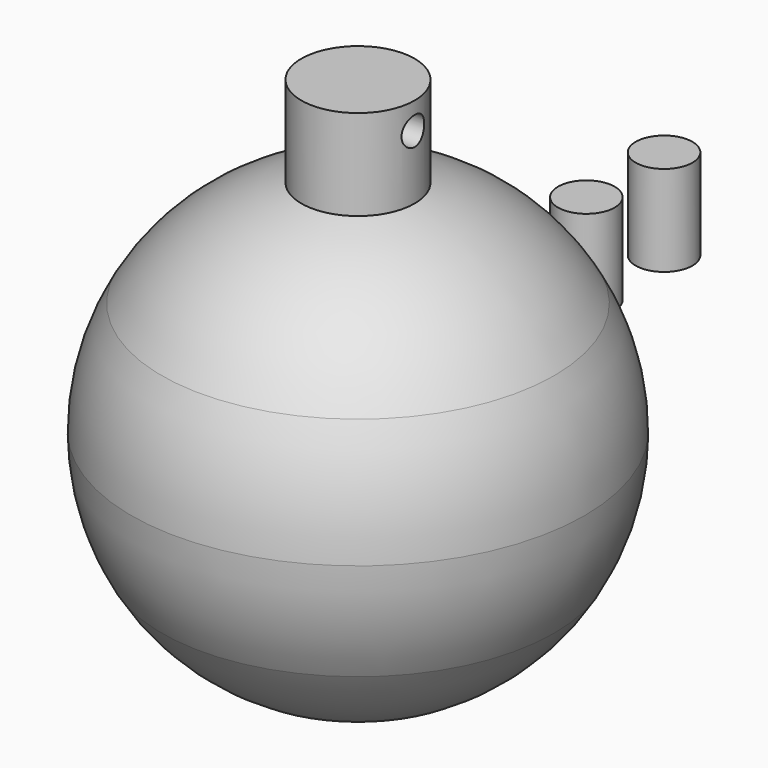
from build123d import *

# Parameters (mm, degrees)
F8_R           = 3.175
F9_DEPTH       = 5.08
F10_R          = 6.35
F11_DEPTH      = 10.16
F12_R          = 1.5875
F13_DEPTH      = 25.4
F13_DEPTH_BACK = 25.4
F14_R          = 3.302
F15_DEPTH      = 6.35
F16_R          = 3.302
F17_DEPTH      = 6.35
F18_R          = 3.302
F19_DEPTH      = 6.35
F20_R          = 3.175
F21_DEPTH      = 5.08
F22_R          = 3.175
F23_DEPTH      = 5.08
F24_R          = 3.302
F25_DEPTH      = 6.35
F26_R          = 3.175
F27_DEPTH      = 10.16
F28_R          = 3.302
F29_DEPTH      = 6.35


with BuildPart() as f1:
    # F0 (on Front) → F1 (revolve)
    with BuildSketch(Plane.XZ):
        with BuildLine():
            Line((0, -12.7), (0, -25.4))
            ThreePointArc((0, -25.4), (12.7, -21.9970452561), (21.9970452561, -12.7))
            Line((21.9970452561, -12.7), (0, -12.7))
        make_face()
    revolve(axis=Axis((0, 0, -19.05), (0, 0, 1)))

    # F18 (on face) → F19 (cut)
    with BuildSketch(Plane.XY.offset(-12.7)):
        Circle(F18_R)
    extrude(amount=-F19_DEPTH, mode=Mode.SUBTRACT)


with BuildPart() as f3:
    # F2 (on Front) → F3 (revolve)
    with BuildSketch(Plane.XZ):
        with BuildLine():
            Line((0, -12.7), (21.9970452561, -12.7))
            ThreePointArc((21.9970452561, -12.7), (24.5345159877, -6.5740037456), (25.4, 0))
            Line((25.4, 0), (0, 0))
            Line((0, 0), (0, -12.7))
        make_face()
    revolve(axis=Axis((0, 0, -6.35), (0, 0, -1)))

    # F22 (on face) → F23 (join)
    with BuildSketch(Plane(origin=(0, 0, -12.7), x_dir=(1, 0, 0), z_dir=(0, 0, -1))):
        Circle(F22_R)
    extrude(amount=F23_DEPTH)

    # F24 (on face) → F25 (cut)
    with BuildSketch(Plane.XY):
        with Locations((12.7, 0)):
            Circle(F24_R)
        with Locations((-12.7, 0)):
            Circle(F24_R)
    extrude(amount=-F25_DEPTH, mode=Mode.SUBTRACT)


with BuildPart() as f5:
    # F4 (on Front) → F5 (revolve)
    with BuildSketch(Plane.XZ):
        with BuildLine():
            Line((0, 0), (25.4, 0))
            ThreePointArc((25.4, 0), (24.5345159877, 6.5740037456), (21.9970452561, 12.7))
            Line((21.9970452561, 12.7), (0, 12.7))
            Line((0, 12.7), (0, 0))
        make_face()
    revolve(axis=Axis((0, 0, 6.35), (0, 0, 1)))

    # F20 (on face) → F21 (join)
    with BuildSketch(Plane.XY.offset(12.7)):
        Circle(F20_R)
    extrude(amount=F21_DEPTH)

    # F28 (on face) → F29 (cut)
    with BuildSketch(Plane(origin=(0, 0, 0), x_dir=(1, 0, 0), z_dir=(0, 0, -1))):
        with Locations((-12.7, 0)):
            Circle(F28_R)
        with Locations((12.7, 0)):
            Circle(F28_R)
    extrude(amount=-F29_DEPTH, mode=Mode.SUBTRACT)


with BuildPart() as f7:
    # F6 (on Front) → F7 (revolve)
    with BuildSketch(Plane.XZ):
        with BuildLine():
            Line((0, 12.7), (21.9970452561, 12.7))
            ThreePointArc((21.9970452561, 12.7), (15.3704992668, 20.2214676097), (6.35, 24.5934442484))
            Line((6.35, 24.5934442484), (0, 24.5934442484))
            Line((0, 24.5934442484), (0, 12.7))
        make_face()
    revolve(axis=Axis((0, 0, 18.6467221242), (0, 0, -1)))

    # F8 (on face) → F9 (join)
    with BuildSketch(Plane.XY.offset(24.5934442484)):
        Circle(F8_R)
    extrude(amount=F9_DEPTH)

    # F16 (on face) → F17 (cut)
    with BuildSketch(Plane(origin=(0, 0, 12.7), x_dir=(1, 0, 0), z_dir=(0, 0, -1))):
        Circle(F16_R)
    extrude(amount=-F17_DEPTH, mode=Mode.SUBTRACT)


with BuildPart() as f11:
    # F10 (on face) → F11 (new body)
    with BuildSketch(Plane.XY.offset(24.5934442484)):
        Circle(F10_R)
    extrude(amount=F11_DEPTH)

    # F12 (on Right) → F13 (cut, two sides)
    with BuildSketch(Plane.YZ) as f13_sk:
        with Locations((0, 31.75)):
            Circle(F12_R)
    extrude(amount=-F13_DEPTH, mode=Mode.SUBTRACT)
    extrude(f13_sk.sketch, amount=F13_DEPTH_BACK, mode=Mode.SUBTRACT)

    # F14 (on face) → F15 (cut)
    with BuildSketch(Plane(origin=(0, 0, 24.5934442484), x_dir=(1, 0, 0), z_dir=(0, 0, -1))):
        Circle(F14_R)
    extrude(amount=-F15_DEPTH, mode=Mode.SUBTRACT)


with BuildPart() as f27:
    # F26 (on Top) → F27 (new body)
    with BuildSketch(Plane.XY):
        with Locations((0, 31.9847915113)):
            Circle(F26_R)
    extrude(amount=F27_DEPTH)


with BuildPart() as f27b:
    # F26 (on Top) → F27, piece 2 (new body)
    with BuildSketch(Plane.XY):
        with Locations((0, 42.8685007115)):
            Circle(F26_R)
    extrude(amount=F27_DEPTH)


solid = Compound([f1.part, f3.part, f5.part, f7.part, f11.part, f27.part, f27b.part])
